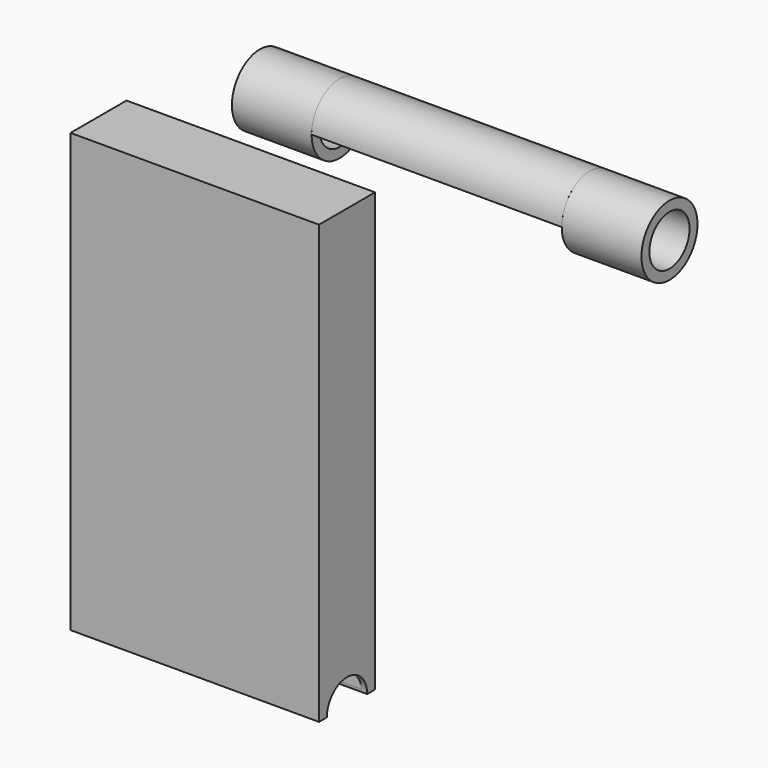
from build123d import *

# Parameters (mm, degrees)
F0_W     = 76.2
F0_H     = 3.0226
F1_ANGLE = 180
F2_W     = 24.275709
F2_H     = 3.0226
F2_W_2   = 24.285598
F4_W     = 75.692
F4_H     = 21.336
F4_W_2   = 72.39
F4_H_2   = 15.2908
F5_DEPTH = 133.35
F6_DEPTH = 2.54
F8_D     = 15.367


with BuildPart() as f1:
    # F0 (on Front) → F1 (revolve, symmetric)
    with BuildSketch(Plane.XZ) as f1_sk:
        with Locations((0, 9.1567)):
            Rectangle(F0_W, F0_H)
    revolve(axis=Axis((6.4693, 0, 0), (1, 0, 0)), revolution_arc=F1_ANGLE / 2)
    revolve(f1_sk.sketch, axis=Axis((6.4693, 0, 0), (-1, 0, 0)), revolution_arc=F1_ANGLE / 2)


with BuildPart() as f3:
    # F2 (on Front) → F3 (revolve)
    with BuildSketch(Plane.XZ):
        with Locations((50.237854, 9.1567)):
            Rectangle(F2_W, F2_H)
        with Locations((-50.242799, 9.1567)):
            Rectangle(F2_W_2, F2_H)
    revolve(axis=Axis((7.914741, 0, 0), (-1, 0, 0)))


with BuildPart() as f5:
    # F4 (on Top) → F5 (new body)
    with BuildSketch(Plane.XY):
        with Locations((-45.599519, -35.119774)):
            Rectangle(F4_W, F4_H)
        with Locations((-45.599519, -35.119774)):
            Rectangle(F4_W_2, F4_H_2, mode=Mode.SUBTRACT)
    extrude(amount=-F5_DEPTH)

    # F4 (on Top) → F6 (join)
    with BuildSketch(Plane.XY):
        with Locations((-45.599519, -35.119774)):
            Rectangle(F4_W_2, F4_H_2)
    extrude(amount=-F6_DEPTH)

    # F8 (through all)
    with Locations(Plane.YZ.offset(-7.753519)):
        with Locations((-35.119774, -133.35)):
            Hole(F8_D / 2)


solid = Compound([f1.part, f3.part, f5.part])
